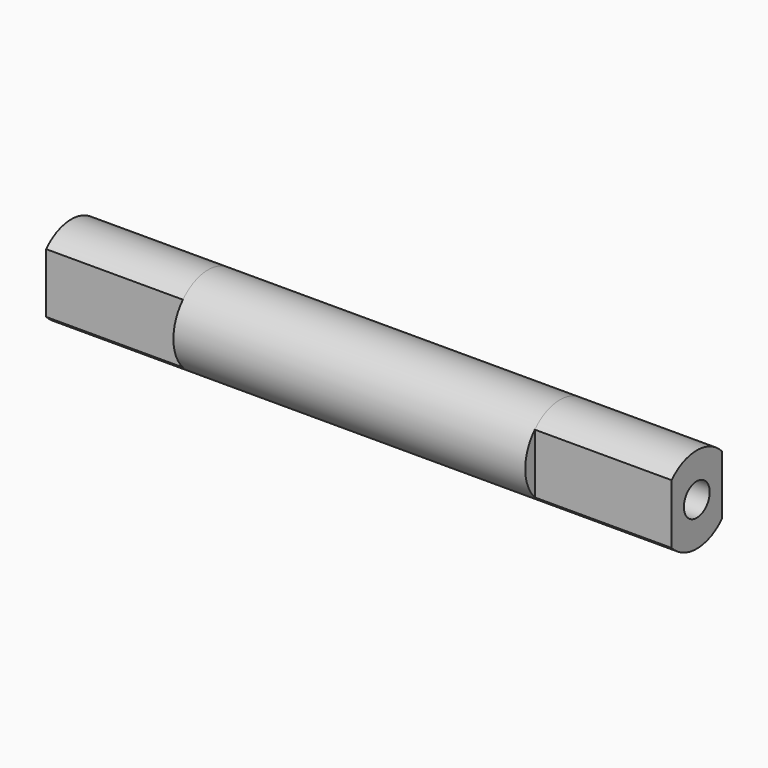
from build123d import *

# Parameters (mm, degrees)
SKETCH037_R  = 2.55
PAD031_DEPTH = 10.35
SKETCH038_R  = 0.95
PAD032_DEPTH = 8.05
SKETCH053_R  = 0.95
PAD045_DEPTH = 8.05


with BuildPart() as part:
    # Sketch037 → Pad031 (new body, symmetric)
    with BuildSketch(Plane.YZ):
        Circle(SKETCH037_R)
    extrude(amount=PAD031_DEPTH, both=True)

    # Sketch038 (on Face3 of Pad031) → Pad032 (join)
    with BuildSketch(Plane.YZ.offset(10.35)):
        with BuildLine():
            ThreePointArc((1.85, 1.754993), (0, 2.55), (-1.85, 1.754993))
            Line((-1.85, 1.754993), (-1.85, -1.754993))
            ThreePointArc((-1.85, -1.754993), (0, -2.55), (1.85, -1.754993))
            Line((1.85, 1.754993), (1.85, -1.754993))
        make_face()
        Circle(SKETCH038_R, mode=Mode.SUBTRACT)
    extrude(amount=PAD032_DEPTH)

    # Sketch053 (on Face9 of Pad032) → Pad045 (join)
    with BuildSketch(Plane(origin=(-10.35, 0, 0), x_dir=(0, 1, 0), z_dir=(-1, 0, 0))):
        with BuildLine():
            Line((1.85, -1.754993), (1.85, 1.754993))
            ThreePointArc((1.85, 1.754993), (0, 2.55), (-1.85, 1.754993))
            Line((-1.85, 1.754993), (-1.85, -1.754993))
            ThreePointArc((-1.85, -1.754993), (0, -2.55), (1.85, -1.754993))
        make_face()
        Circle(SKETCH053_R, mode=Mode.SUBTRACT)
    extrude(amount=PAD045_DEPTH)


solid = part.part
